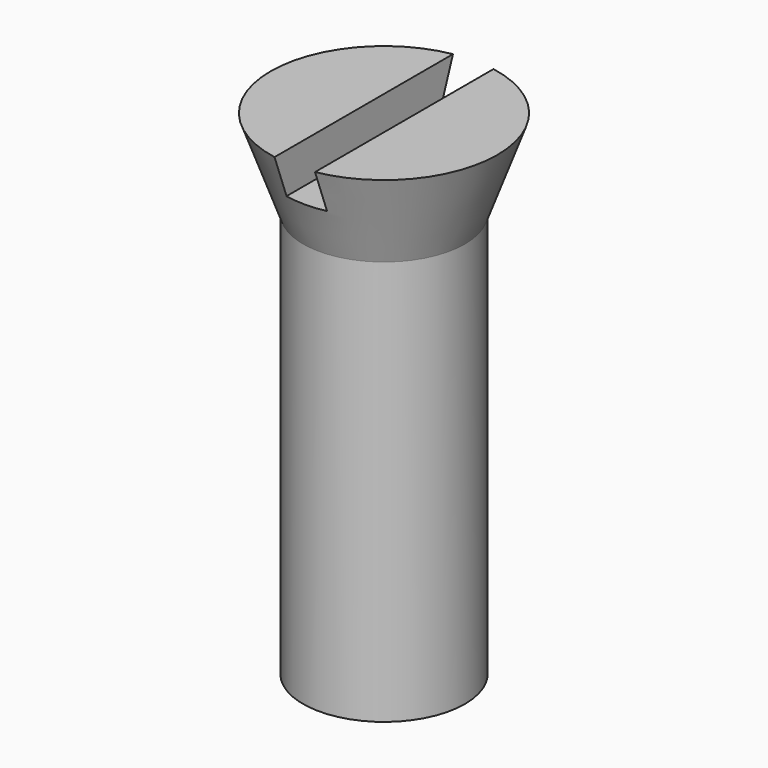
from build123d import *

# Parameters (mm, degrees)
CYLINDER_R     = 2
CYLINDER_DEPTH = 10
BOX_W          = 1
BOX_H          = 5.6
BOX_DEPTH      = 1


with BuildPart() as cilindre:
    # Cylinder → Cylinder (new body)
    with BuildSketch(Plane.XY):
        Circle(CYLINDER_R)
    extrude(amount=CYLINDER_DEPTH)


with BuildPart() as cub:
    # Box → Box (new body)
    with BuildSketch(Plane(origin=(-0.5, -2.8, 11.2), x_dir=(1, 0, 0), z_dir=(0, 0, 1))):
        with Locations((0.5, 2.8)):
            Rectangle(BOX_W, BOX_H)
    extrude(amount=BOX_DEPTH)


with BuildPart() as cut:
    # Cone → Cone (revolve)
    with BuildSketch(Plane(origin=(0, 0, 10), x_dir=(1, 0, 0), z_dir=(0, -1, 0))):
        Polygon((0, 0), (2, 0), (2.8, 2.2), (0, 2.2), align=None)
    revolve(axis=Axis((0, 0, 10), (0, 0, 1)))

    # Cut: cut Cub
    add(cub.part, mode=Mode.SUBTRACT)


solid = Compound([cilindre.part, cut.part])
